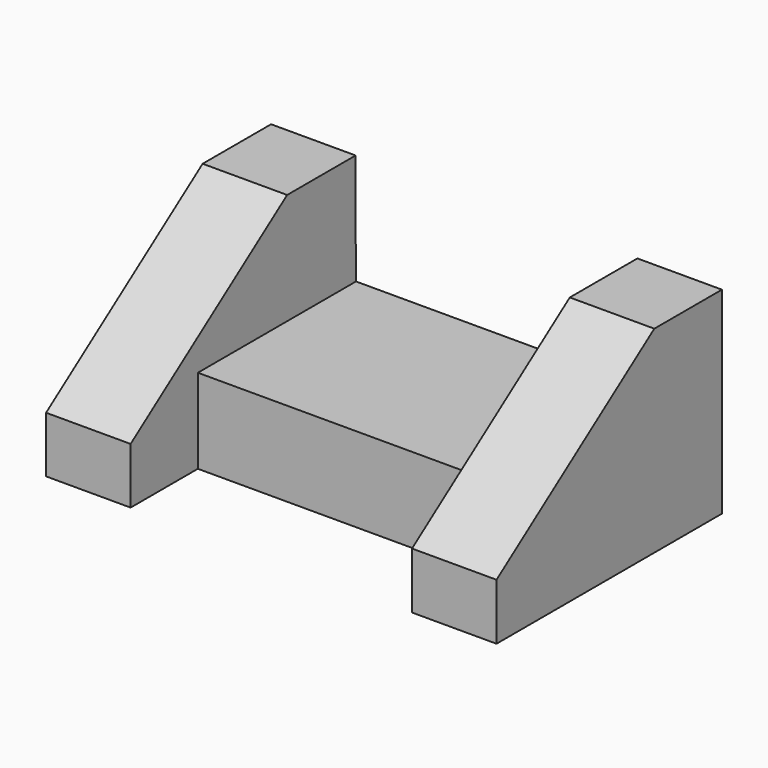
from build123d import *

# Parameters (mm, degrees)
F1_DEPTH = 19.05
F2_W     = 44.5485021919
F2_H     = 19.0605525859
F3_DEPTH = 63.5
F5_DEPTH = 19.05


with BuildPart() as f1:
    # F0 (on Right) → F1 (new body)
    with BuildSketch(Plane.YZ):
        Polygon((15.3113486357, 20.6044124255), (-3.7386513643, 20.6044124255), (-48.1886513643, -11.1455875745), (-48.1886513643, -23.8455875745), (15.3113486357, -23.8455875745), align=None)
    extrude(amount=F1_DEPTH)


with BuildPart() as f3:
    # F2 (on Right) → F3 (new body)
    with BuildSketch(Plane.YZ):
        with Locations((-6.8706655875, -14.1845976468)):
            Rectangle(F2_W, F2_H)
    extrude(amount=-F3_DEPTH)

    # F4 (on face) → F5 (join)
    with BuildSketch(Plane(origin=(-63.5, 0, 0), x_dir=(0, -1, 0), z_dir=(-1, 0, 0))):
        Polygon((29.1449166834, -4.6543213539), (29.1449166834, -23.7148739398), (48.0946525931, -23.7148739398), (48.0946525931, -11.0817179084), (3.9894175716, 20.3903596848), (-15.2927702293, 20.3903596848), (-15.3556954899, -4.6543213539), align=None)
        Polygon((-15.3556954899, -4.6543213539), (-15.4035855085, -23.7148739398), (29.1449166834, -23.7148739398), (29.1449166834, -4.6543213539), align=None)
    extrude(amount=F5_DEPTH)


solid = Compound([f1.part, f3.part])
